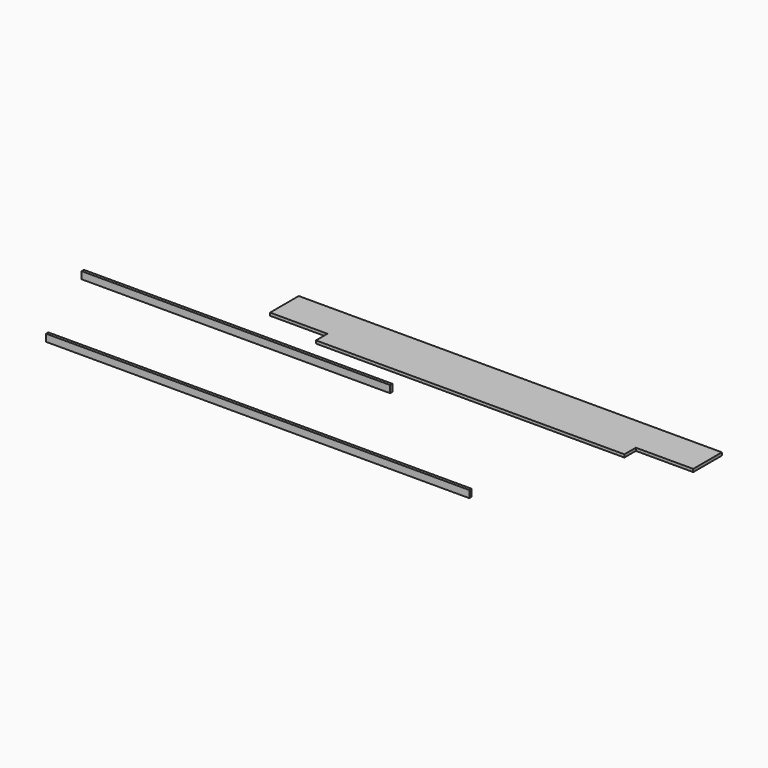
from build123d import *

# Parameters (mm, degrees)
F1_DEPTH = 0.2
F2_W     = 21.5
F2_H     = 0.5
F3_DEPTH = 0.2
F4_W     = 29.5
F4_H     = 0.5
F5_DEPTH = 0.2


with BuildPart() as f1:
    # F0 (on Top) → F1 (new body)
    with BuildSketch(Plane.XY):
        Polygon((-4.502881, 16.486939), (-34.002881, 16.486939), (-34.002881, 13.986939), (-30.002881, 13.986939), (-30.002881, 12.986939), (-8.502881, 12.986939), (-8.502881, 13.986939), (-4.502881, 13.986939), align=None)
    extrude(amount=F1_DEPTH)


with BuildPart() as f3:
    # F2 (on Front) → F3 (new body)
    with BuildSketch(Plane.XZ):
        with Locations((-25.037248, 7.677589)):
            Rectangle(F2_W, F2_H)
    extrude(amount=F3_DEPTH)


with BuildPart() as f5:
    # F4 (on Front) → F5 (new body)
    with BuildSketch(Plane.XZ):
        with Locations((-23.516471, 3.032457)):
            Rectangle(F4_W, F4_H)
    extrude(amount=F5_DEPTH)


solid = Compound([f1.part, f3.part, f5.part])
